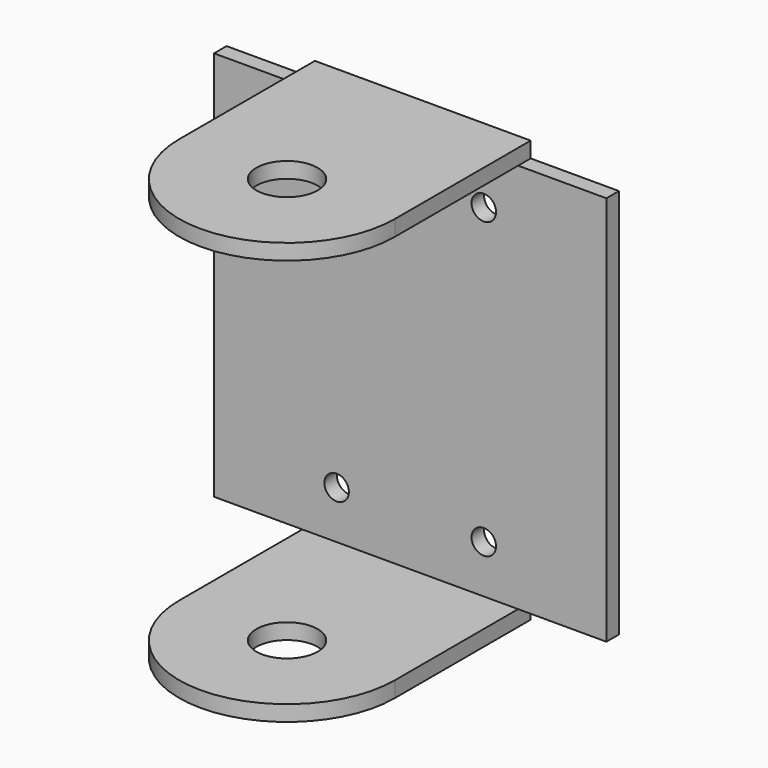
from build123d import *

# Parameters (mm, degrees)
F0_W     = 50.8
F0_H     = 54.61
F0_R     = 1.5875
F1_DEPTH = 50.8
F2_R     = 3.96875
F3_DEPTH = 54.611
F4_W     = 50.8
F4_H     = 50.546
F5_DEPTH = 33.9065
F6_W     = 11.43125
F6_H     = 2.032
F7_DEPTH = 2.033


with BuildPart() as f1:
    # F0 (on Front) → F1 (new body)
    with BuildSketch(Plane.XZ):
        Rectangle(F0_W, F0_H)
        with Locations((-9.525, -19.05)):
            Circle(F0_R, mode=Mode.SUBTRACT)
        with Locations((9.525, -19.05)):
            Circle(F0_R, mode=Mode.SUBTRACT)
        with Locations((-9.525, 19.05)):
            Circle(F0_R, mode=Mode.SUBTRACT)
        with Locations((9.525, 19.05)):
            Circle(F0_R, mode=Mode.SUBTRACT)
    extrude(amount=F1_DEPTH)

    # F2 (on face) → F3 (cut, through all)
    with BuildSketch(Plane.XY.offset(27.305)):
        with BuildLine():
            Line((-25.4, -2.032), (-25.4, -50.8))
            Line((-25.4, -50.8), (25.4, -50.8))
            Line((25.4, -50.8), (25.4, -2.032))
            Line((25.4, -2.032), (13.96875, -2.032))
            Line((13.96875, -2.032), (13.96875, -21.96875))
            ThreePointArc((13.96875, -21.96875), (0, -35.9375), (-13.96875, -21.96875))
            Line((-13.96875, -21.96875), (-13.96875, -2.032))
            Line((-13.96875, -2.032), (-25.4, -2.032))
        make_face()
        with Locations((0, -21.96875)):
            Circle(F2_R)
    extrude(amount=-F3_DEPTH, mode=Mode.SUBTRACT)

    # F4 (on face) → F5 (cut, through all)
    with BuildSketch(Plane.XZ.offset(2.032)):
        Rectangle(F4_W, F4_H)
    extrude(amount=F5_DEPTH, mode=Mode.SUBTRACT)

    # F6 (on face) → F7 (cut, through all)
    with BuildSketch(Plane.XZ.offset(2.032)):
        with Locations((-19.684375, 26.289)):
            Rectangle(F6_W, F6_H)
        with Locations((19.684375, 26.289)):
            Rectangle(F6_W, F6_H)
        with Locations((19.684375, -26.289)):
            Rectangle(F6_W, F6_H)
        with Locations((-19.684375, -26.289)):
            Rectangle(F6_W, F6_H)
    extrude(amount=-F7_DEPTH, mode=Mode.SUBTRACT)


solid = f1.part
